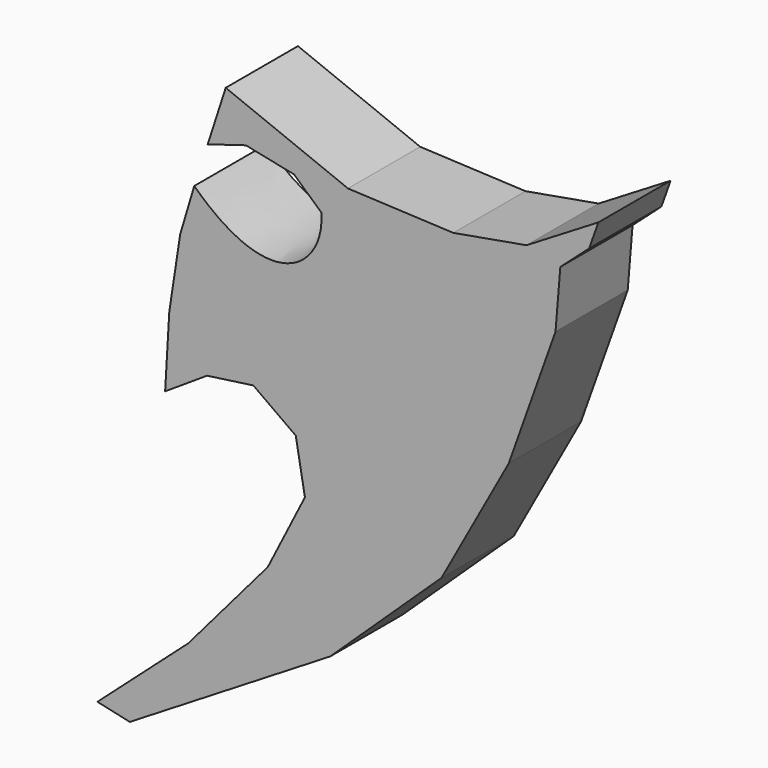
from build123d import *

# Parameters (mm, degrees)
F1_DEPTH = 5


with BuildPart() as f1:
    # F0 (on Front) → F1 (new body)
    with BuildSketch(Plane.XZ):
        with BuildLine():
            Line((14.079286, -2.855276), (7.309372, -0.148515))
            Line((7.309372, -0.148515), (6.311895, -3.230274))
            Line((6.311895, -3.230274), (8.425951, -2.590102))
            Line((8.425951, -2.590102), (11.090854, -3.140948))
            Line((11.090854, -3.140948), (12.609402, -4.510618))
            add(Edge.make_bspline(
                [(12.609402, -4.510618), (12.809735, -7.270896), (9.862116, -9.607936), (5.567014, -5.502325)],
                knots=[0, 0, 0, 0, 7.111871, 7.111871, 7.111871, 7.111871], degree=3))
            Line((5.567014, -5.502325), (4.788001, -8.113072))
            Line((4.788001, -8.113072), (4.184787, -12.078794))
            Line((4.184787, -12.078794), (3.954032, -16.039545))
            Line((3.954032, -16.039545), (6.276517, -14.520998))
            Line((6.276517, -14.520998), (8.837205, -14.163692))
            Line((8.837205, -14.163692), (11.189465, -15.846005))
            Line((11.189465, -15.846005), (11.695648, -18.689562))
            Line((11.695648, -18.689562), (9.641142, -22.753909))
            Line((9.641142, -22.753909), (5.231907, -27.910765))
            Line((5.231907, -27.910765), (0.20325, -32.395359))
            Line((0.20325, -32.395359), (1.997939, -32.792404))
            Line((1.997939, -32.792404), (13.096696, -25.990801))
            Line((13.096696, -25.990801), (19.260213, -20.154811))
            Line((19.260213, -20.154811), (22.982145, -13.366009))
            Line((22.982145, -13.366009), (25.572609, -6.1008))
            Line((25.572609, -6.1008), (25.840588, -2.855276))
            Line((25.840588, -2.855276), (27.436723, -1.431831))
            Line((27.436723, -1.431831), (27.947253, 0))
            Line((27.947253, 0), (23.964735, -2.408644))
            Line((23.964735, -2.408644), (19.915273, -3.123255))
            Line((19.915273, -3.123255), (14.079286, -2.855276))
        make_face()
    extrude(amount=F1_DEPTH)


solid = f1.part
